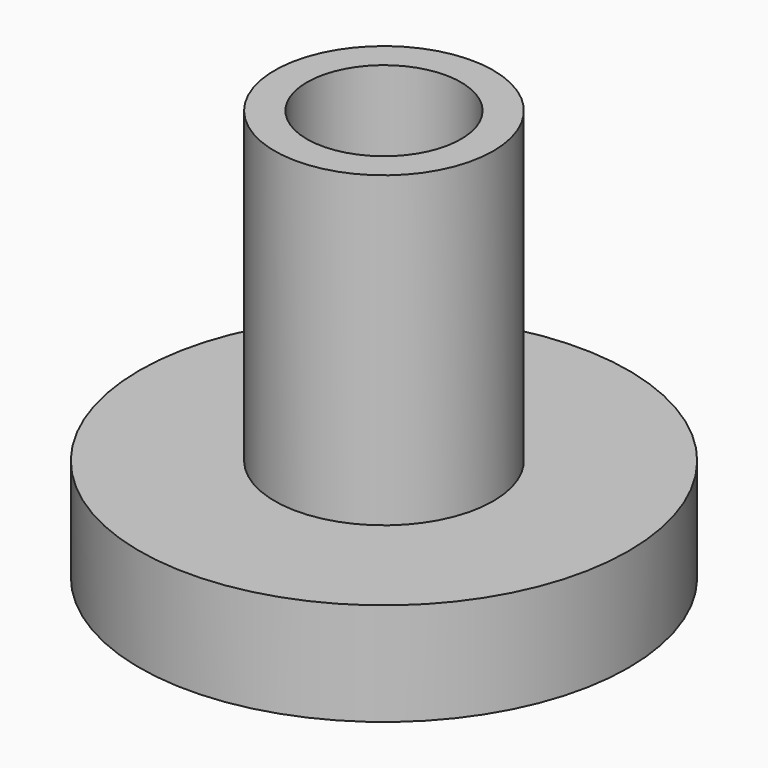
from build123d import *

# Parameters (mm, degrees)
F0_R     = 60.481634
F1_DEPTH = 25.4
F2_R     = 27.027248
F3_DEPTH = 76.2
F5_D     = 38.1


with BuildPart() as f1:
    # F0 (on Top) → F1 (new body)
    with BuildSketch(Plane.XY):
        Circle(F0_R)
    extrude(amount=F1_DEPTH)

    # F2 (on face) → F3 (join)
    with BuildSketch(Plane.XY.offset(25.4)):
        Circle(F2_R)
    extrude(amount=F3_DEPTH)

    # F5 (through all)
    with Locations(Plane(origin=(0, 0, 0), x_dir=(1, 0, 0), z_dir=(0, 0, -1))):
        with Locations((0, 0)):
            Hole(F5_D / 2)


solid = f1.part
